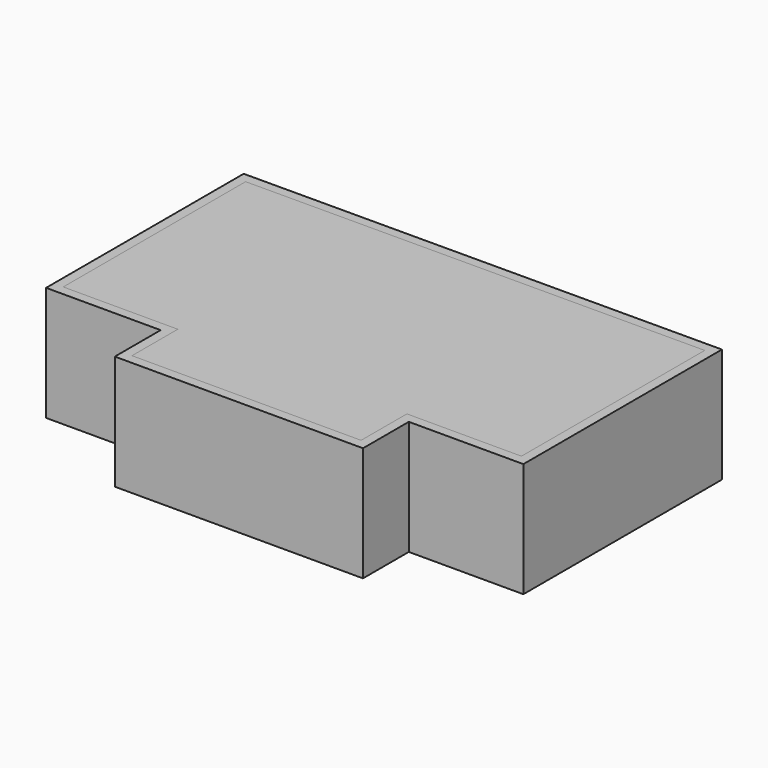
from build123d import *

# Parameters (mm, degrees)
F2_DEPTH = 25.4


with BuildPart() as f2:
    # F1 (on Top) → F2 (new body)
    with BuildSketch(Plane.XY):
        Polygon((7.9396317849, 21.7884753897), (33.3396317849, 21.7884753897), (33.3396317849, 76.8254651894), (-72.4920082151, 76.5582098941), (-72.4920082151, 21.7884753897), (-47.0920082151, 21.7884753897), (-47.0920082151, 9.0889833897), (7.9396317849, 9.0889833897), align=None)
    extrude(amount=F2_DEPTH)


with BuildPart() as f2b:
    # F0 (on Top) → F2, piece 2 (new body)
    with BuildSketch(Plane.XY):
        Polygon((31.2238117849, 74.7042953897), (-70.3761882151, 74.4477262011), (-70.3761882151, 23.9042953897), (-44.9761882151, 23.9042953897), (-44.9761882151, 11.2048033897), (5.8238117849, 11.2048033897), (5.8238117849, 23.9042953897), (31.2238117849, 23.9042953897), align=None)
    extrude(amount=F2_DEPTH)


solid = Compound([f2.part, f2b.part])
